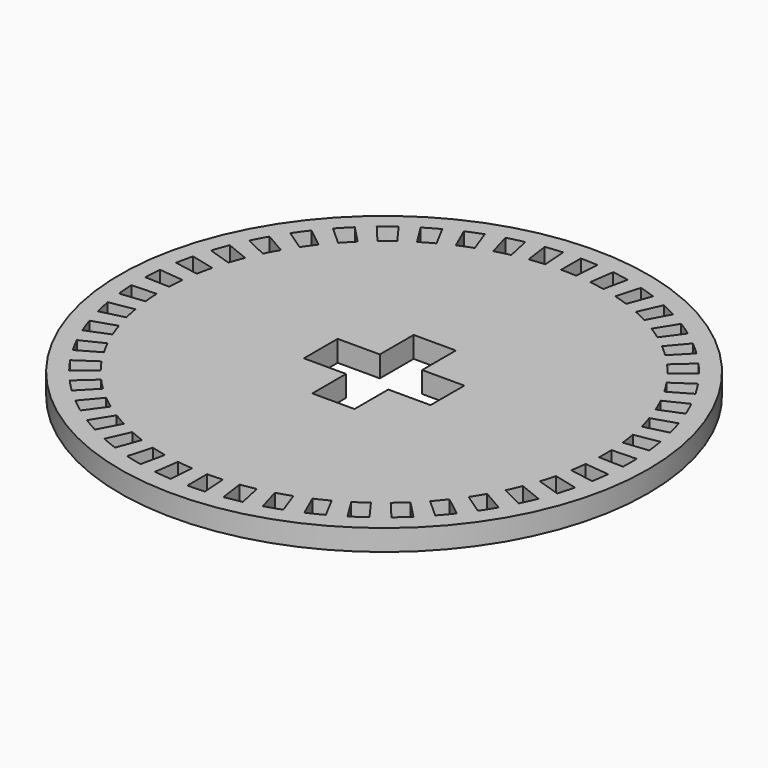
from build123d import *

# Parameters (mm, degrees)
F0_R     = 50
F1_DEPTH = 10
F2_R     = 125
F2_R_2   = 40.44952
F3_DEPTH = 10
F5_DEPTH = 25


with BuildPart() as f1:
    # F0 (on Top) → F1 (new body)
    with BuildSketch(Plane.XY):
        Circle(F0_R)
        Polygon((-10, 30), (0, 30), (10, 30), (10, 10), (30, 10), (30, 0), (30, -10), (10, -10), (10, -30), (0, -30), (-10, -30), (-10, -10), (-30, -10), (-30, 0), (-30, 10), (-10, 10), align=None, mode=Mode.SUBTRACT)
    extrude(amount=F1_DEPTH)

    # F2 (on face) → F3 (join)
    with BuildSketch(Plane.XY.offset(10)):
        Circle(F2_R)
        Circle(F2_R_2, mode=Mode.SUBTRACT)
    extrude(amount=-F3_DEPTH)

    # F4 (on face) → F5 (cut)
    with BuildSketch(Plane.XY.offset(10)):
        with BuildLine():
            Line((0, 116.456337), (0, 104.802647))
            ThreePointArc((0, 104.802647), (3.65756, 104.738804), (7.310663, 104.547353))
            Line((7.310663, 104.547353), (8.123583, 116.172655))
            ThreePointArc((8.123583, 116.172655), (4.064268, 116.385395), (0, 116.456337))
        make_face()
        with BuildLine():
            ThreePointArc((-14.585709, 103.782715), (-10.95486, 104.228527), (-7.310663, 104.547353))
            Line((-7.310663, 104.547353), (-8.123583, 116.172655))
            ThreePointArc((-8.123583, 116.172655), (-12.173002, 115.818377), (-16.20759, 115.322992))
            Line((-16.20759, 115.322992), (-14.585709, 103.782715))
        make_face()
        with BuildLine():
            ThreePointArc((-28.887525, 100.74277), (-25.354055, 101.689561), (-21.789696, 102.512458))
            Line((-21.789696, 102.512458), (-24.212634, 113.911487))
            ThreePointArc((-24.212634, 113.911487), (-28.173338, 112.997086), (-32.099717, 111.945016))
            Line((-32.099717, 111.945016), (-28.887525, 100.74277))
        make_face()
        with BuildLine():
            ThreePointArc((-42.627077, 95.741982), (-39.259763, 97.171322), (-35.844616, 98.482274))
            Line((-35.844616, 98.482274), (-39.830413, 109.433161))
            ThreePointArc((-39.830413, 109.433161), (-43.625312, 107.976436), (-47.36706, 106.388158))
            Line((-47.36706, 106.388158), (-42.627077, 95.741982))
        make_face()
        with BuildLine():
            ThreePointArc((-55.536942, 88.877685), (-52.401324, 90.761755), (-49.201863, 92.535245))
            Line((-49.201863, 92.535245), (-54.672939, 102.824843))
            ThreePointArc((-54.672939, 102.824843), (-58.228169, 100.854147), (-61.712457, 98.760575))
            Line((-61.712457, 98.760575), (-55.536942, 88.877685))
        make_face()
        with BuildLine():
            ThreePointArc((-67.365843, 80.283486), (-64.522952, 82.585613), (-61.60145, 84.787123))
            Line((-61.60145, 84.787123), (-68.451318, 94.215156))
            ThreePointArc((-68.451318, 94.215156), (-71.69768, 91.768846), (-74.856691, 89.21073))
            Line((-74.856691, 89.21073), (-67.365843, 80.283486))
        make_face()
        with BuildLine():
            ThreePointArc((-77.883545, 70.126659), (-75.388715, 72.802036), (-72.802036, 75.388715))
            Line((-72.802036, 75.388715), (-80.897369, 83.771678))
            ThreePointArc((-80.897369, 83.771678), (-83.771678, 80.897369), (-86.543924, 77.9245))
            Line((-86.543924, 77.9245), (-77.883545, 70.126659))
        make_face()
        with BuildLine():
            ThreePointArc((-86.885332, 58.604897), (-84.787123, 61.60145), (-82.585613, 64.522952))
            Line((-82.585613, 64.522952), (-91.768846, 71.69768))
            ThreePointArc((-91.768846, 71.69768), (-94.215156, 68.451318), (-96.546679, 65.121557))
            Line((-96.546679, 65.121557), (-86.885332, 58.604897))
        make_face()
        with BuildLine():
            ThreePointArc((-94.195995, 45.942457), (-92.535245, 49.201863), (-90.761755, 52.401324))
            Line((-90.761755, 52.401324), (-100.854147, 58.228169))
            ThreePointArc((-100.854147, 58.228169), (-102.824843, 54.672939), (-104.670263, 51.051098))
            Line((-104.670263, 51.051098), (-94.195995, 45.942457))
        make_face()
        with BuildLine():
            ThreePointArc((-99.673241, 32.385799), (-98.482274, 35.844616), (-97.171322, 39.259763))
            Line((-97.171322, 39.259763), (-107.976436, 43.625312))
            ThreePointArc((-107.976436, 43.625312), (-109.433161, 39.830413), (-110.756558, 35.986987))
            Line((-110.756558, 35.986987), (-99.673241, 32.385799))
        make_face()
        with BuildLine():
            ThreePointArc((-103.21046, 18.198789), (-102.512458, 21.789696), (-101.689561, 25.354055))
            Line((-101.689561, 25.354055), (-112.997086, 28.173338))
            ThreePointArc((-112.997086, 28.173338), (-113.911487, 24.212634), (-114.687104, 20.222431))
            Line((-114.687104, 20.222431), (-103.21046, 18.198789))
        make_face()
        with BuildLine():
            ThreePointArc((-104.738804, 3.65756), (-104.547353, 7.310663), (-104.228527, 10.95486))
            Line((-104.228527, 10.95486), (-115.818377, 12.173002))
            ThreePointArc((-115.818377, 12.173002), (-116.172655, 8.123583), (-116.385395, 4.064268))
            Line((-116.385395, 4.064268), (-104.738804, 3.65756))
        make_face()
        with BuildLine():
            ThreePointArc((-104.228527, -10.95486), (-104.547353, -7.310663), (-104.738804, -3.65756))
            Line((-104.738804, -3.65756), (-116.385395, -4.064268))
            ThreePointArc((-116.385395, -4.064268), (-116.172655, -8.123583), (-115.818377, -12.173002))
            Line((-115.818377, -12.173002), (-104.228527, -10.95486))
        make_face()
        with BuildLine():
            ThreePointArc((-101.689561, -25.354055), (-102.512458, -21.789696), (-103.21046, -18.198789))
            Line((-103.21046, -18.198789), (-114.687104, -20.222431))
            ThreePointArc((-114.687104, -20.222431), (-113.911487, -24.212634), (-112.997086, -28.173338))
            Line((-112.997086, -28.173338), (-101.689561, -25.354055))
        make_face()
        with BuildLine():
            ThreePointArc((-97.171322, -39.259763), (-98.482274, -35.844616), (-99.673241, -32.385799))
            Line((-99.673241, -32.385799), (-110.756558, -35.986987))
            ThreePointArc((-110.756558, -35.986987), (-109.433161, -39.830413), (-107.976436, -43.625312))
            Line((-107.976436, -43.625312), (-97.171322, -39.259763))
        make_face()
        with BuildLine():
            ThreePointArc((-90.761755, -52.401324), (-92.535245, -49.201863), (-94.195995, -45.942457))
            Line((-94.195995, -45.942457), (-104.670263, -51.051098))
            ThreePointArc((-104.670263, -51.051098), (-102.824843, -54.672939), (-100.854147, -58.228169))
            Line((-100.854147, -58.228169), (-90.761755, -52.401324))
        make_face()
        with BuildLine():
            ThreePointArc((-82.585613, -64.522952), (-84.787123, -61.60145), (-86.885332, -58.604897))
            Line((-86.885332, -58.604897), (-96.546679, -65.121557))
            ThreePointArc((-96.546679, -65.121557), (-94.215156, -68.451318), (-91.768846, -71.69768))
            Line((-91.768846, -71.69768), (-82.585613, -64.522952))
        make_face()
        with BuildLine():
            ThreePointArc((-72.802036, -75.388715), (-75.388715, -72.802036), (-77.883545, -70.126659))
            Line((-77.883545, -70.126659), (-86.543924, -77.9245))
            ThreePointArc((-86.543924, -77.9245), (-83.771678, -80.897369), (-80.897369, -83.771678))
            Line((-80.897369, -83.771678), (-72.802036, -75.388715))
        make_face()
        with BuildLine():
            ThreePointArc((-61.60145, -84.787123), (-64.522952, -82.585613), (-67.365843, -80.283486))
            Line((-67.365843, -80.283486), (-74.856691, -89.21073))
            ThreePointArc((-74.856691, -89.21073), (-71.69768, -91.768846), (-68.451318, -94.215156))
            Line((-68.451318, -94.215156), (-61.60145, -84.787123))
        make_face()
        with BuildLine():
            ThreePointArc((-49.201863, -92.535245), (-52.401324, -90.761755), (-55.536942, -88.877685))
            Line((-55.536942, -88.877685), (-61.712457, -98.760575))
            ThreePointArc((-61.712457, -98.760575), (-58.228169, -100.854147), (-54.672939, -102.824843))
            Line((-54.672939, -102.824843), (-49.201863, -92.535245))
        make_face()
        with BuildLine():
            ThreePointArc((-35.844616, -98.482274), (-39.259763, -97.171322), (-42.627077, -95.741982))
            Line((-42.627077, -95.741982), (-47.36706, -106.388158))
            ThreePointArc((-47.36706, -106.388158), (-43.625312, -107.976436), (-39.830413, -109.433161))
            Line((-39.830413, -109.433161), (-35.844616, -98.482274))
        make_face()
        with BuildLine():
            ThreePointArc((-21.789696, -102.512458), (-25.354055, -101.689561), (-28.887525, -100.74277))
            Line((-28.887525, -100.74277), (-32.099717, -111.945016))
            ThreePointArc((-32.099717, -111.945016), (-28.173338, -112.997086), (-24.212634, -113.911487))
            Line((-24.212634, -113.911487), (-21.789696, -102.512458))
        make_face()
        with BuildLine():
            ThreePointArc((-7.310663, -104.547353), (-10.95486, -104.228527), (-14.585709, -103.782715))
            Line((-14.585709, -103.782715), (-16.20759, -115.322992))
            ThreePointArc((-16.20759, -115.322992), (-12.173002, -115.818377), (-8.123583, -116.172655))
            Line((-8.123583, -116.172655), (-7.310663, -104.547353))
        make_face()
        with BuildLine():
            ThreePointArc((7.310663, -104.547353), (3.65756, -104.738804), (0, -104.802647))
            Line((0, -104.802647), (0, -116.456337))
            ThreePointArc((0, -116.456337), (4.064268, -116.385395), (8.123583, -116.172655))
            Line((8.123583, -116.172655), (7.310663, -104.547353))
        make_face()
        with BuildLine():
            ThreePointArc((21.789696, -102.512458), (18.198789, -103.21046), (14.585709, -103.782715))
            Line((14.585709, -103.782715), (16.20759, -115.322992))
            ThreePointArc((16.20759, -115.322992), (20.222431, -114.687104), (24.212634, -113.911487))
            Line((24.212634, -113.911487), (21.789696, -102.512458))
        make_face()
        with BuildLine():
            ThreePointArc((35.844616, -98.482274), (32.385799, -99.673241), (28.887525, -100.74277))
            Line((28.887525, -100.74277), (32.099717, -111.945016))
            ThreePointArc((32.099717, -111.945016), (35.986987, -110.756558), (39.830413, -109.433161))
            Line((39.830413, -109.433161), (35.844616, -98.482274))
        make_face()
        with BuildLine():
            ThreePointArc((49.201863, -92.535245), (45.942457, -94.195995), (42.627077, -95.741982))
            Line((42.627077, -95.741982), (47.36706, -106.388158))
            ThreePointArc((47.36706, -106.388158), (51.051098, -104.670263), (54.672939, -102.824843))
            Line((54.672939, -102.824843), (49.201863, -92.535245))
        make_face()
        with BuildLine():
            ThreePointArc((61.60145, -84.787123), (58.604897, -86.885332), (55.536942, -88.877685))
            Line((55.536942, -88.877685), (61.712457, -98.760575))
            ThreePointArc((61.712457, -98.760575), (65.121557, -96.546679), (68.451318, -94.215156))
            Line((68.451318, -94.215156), (61.60145, -84.787123))
        make_face()
        with BuildLine():
            ThreePointArc((72.802036, -75.388715), (70.126659, -77.883545), (67.365843, -80.283486))
            Line((67.365843, -80.283486), (74.856691, -89.21073))
            ThreePointArc((74.856691, -89.21073), (77.9245, -86.543924), (80.897369, -83.771678))
            Line((80.897369, -83.771678), (72.802036, -75.388715))
        make_face()
        with BuildLine():
            ThreePointArc((82.585613, -64.522952), (80.283486, -67.365843), (77.883545, -70.126659))
            Line((77.883545, -70.126659), (86.543924, -77.9245))
            ThreePointArc((86.543924, -77.9245), (89.21073, -74.856691), (91.768846, -71.69768))
            Line((91.768846, -71.69768), (82.585613, -64.522952))
        make_face()
        with BuildLine():
            ThreePointArc((90.761755, -52.401324), (88.877685, -55.536942), (86.885332, -58.604897))
            Line((86.885332, -58.604897), (96.546679, -65.121557))
            ThreePointArc((96.546679, -65.121557), (98.760575, -61.712457), (100.854147, -58.228169))
            Line((100.854147, -58.228169), (90.761755, -52.401324))
        make_face()
        with BuildLine():
            ThreePointArc((97.171322, -39.259763), (95.741982, -42.627077), (94.195995, -45.942457))
            Line((94.195995, -45.942457), (104.670263, -51.051098))
            ThreePointArc((104.670263, -51.051098), (106.388158, -47.36706), (107.976436, -43.625312))
            Line((107.976436, -43.625312), (97.171322, -39.259763))
        make_face()
        with BuildLine():
            ThreePointArc((101.689561, -25.354055), (100.74277, -28.887525), (99.673241, -32.385799))
            Line((99.673241, -32.385799), (110.756558, -35.986987))
            ThreePointArc((110.756558, -35.986987), (111.945016, -32.099717), (112.997086, -28.173338))
            Line((112.997086, -28.173338), (101.689561, -25.354055))
        make_face()
        with BuildLine():
            ThreePointArc((104.228527, -10.95486), (103.782715, -14.585709), (103.21046, -18.198789))
            Line((103.21046, -18.198789), (114.687104, -20.222431))
            ThreePointArc((114.687104, -20.222431), (115.322992, -16.20759), (115.818377, -12.173002))
            Line((115.818377, -12.173002), (104.228527, -10.95486))
        make_face()
        with BuildLine():
            ThreePointArc((104.738804, 3.65756), (104.802647, 0), (104.738804, -3.65756))
            Line((104.738804, -3.65756), (116.385395, -4.064268))
            ThreePointArc((116.385395, -4.064268), (116.456337, 0), (116.385395, 4.064268))
            Line((116.385395, 4.064268), (104.738804, 3.65756))
        make_face()
        with BuildLine():
            ThreePointArc((103.21046, 18.198789), (103.782715, 14.585709), (104.228527, 10.95486))
            Line((104.228527, 10.95486), (115.818377, 12.173002))
            ThreePointArc((115.818377, 12.173002), (115.322992, 16.20759), (114.687104, 20.222431))
            Line((114.687104, 20.222431), (103.21046, 18.198789))
        make_face()
        with BuildLine():
            ThreePointArc((99.673241, 32.385799), (100.74277, 28.887525), (101.689561, 25.354055))
            Line((101.689561, 25.354055), (112.997086, 28.173338))
            ThreePointArc((112.997086, 28.173338), (111.945016, 32.099717), (110.756558, 35.986987))
            Line((110.756558, 35.986987), (99.673241, 32.385799))
        make_face()
        with BuildLine():
            ThreePointArc((94.195995, 45.942457), (95.741982, 42.627077), (97.171322, 39.259763))
            Line((97.171322, 39.259763), (107.976436, 43.625312))
            ThreePointArc((107.976436, 43.625312), (106.388158, 47.36706), (104.670263, 51.051098))
            Line((104.670263, 51.051098), (94.195995, 45.942457))
        make_face()
        with BuildLine():
            ThreePointArc((86.885332, 58.604897), (88.877685, 55.536942), (90.761755, 52.401324))
            Line((90.761755, 52.401324), (100.854147, 58.228169))
            ThreePointArc((100.854147, 58.228169), (98.760575, 61.712457), (96.546679, 65.121557))
            Line((96.546679, 65.121557), (86.885332, 58.604897))
        make_face()
        with BuildLine():
            ThreePointArc((77.883545, 70.126659), (80.283486, 67.365843), (82.585613, 64.522952))
            Line((82.585613, 64.522952), (91.768846, 71.69768))
            ThreePointArc((91.768846, 71.69768), (89.21073, 74.856691), (86.543924, 77.9245))
            Line((86.543924, 77.9245), (77.883545, 70.126659))
        make_face()
        with BuildLine():
            ThreePointArc((67.365843, 80.283486), (70.126659, 77.883545), (72.802036, 75.388715))
            Line((72.802036, 75.388715), (80.897369, 83.771678))
            ThreePointArc((80.897369, 83.771678), (77.9245, 86.543924), (74.856691, 89.21073))
            Line((74.856691, 89.21073), (67.365843, 80.283486))
        make_face()
        with BuildLine():
            ThreePointArc((55.536942, 88.877685), (58.604897, 86.885332), (61.60145, 84.787123))
            Line((61.60145, 84.787123), (68.451318, 94.215156))
            ThreePointArc((68.451318, 94.215156), (65.121557, 96.546679), (61.712457, 98.760575))
            Line((61.712457, 98.760575), (55.536942, 88.877685))
        make_face()
        with BuildLine():
            ThreePointArc((42.627077, 95.741982), (45.942457, 94.195995), (49.201863, 92.535245))
            Line((49.201863, 92.535245), (54.672939, 102.824843))
            ThreePointArc((54.672939, 102.824843), (51.051098, 104.670263), (47.36706, 106.388158))
            Line((47.36706, 106.388158), (42.627077, 95.741982))
        make_face()
        with BuildLine():
            ThreePointArc((28.887525, 100.74277), (32.385799, 99.673241), (35.844616, 98.482274))
            Line((35.844616, 98.482274), (39.830413, 109.433161))
            ThreePointArc((39.830413, 109.433161), (35.986987, 110.756558), (32.099717, 111.945016))
            Line((32.099717, 111.945016), (28.887525, 100.74277))
        make_face()
        with BuildLine():
            ThreePointArc((14.585709, 103.782715), (18.198789, 103.21046), (21.789696, 102.512458))
            Line((21.789696, 102.512458), (24.212634, 113.911487))
            ThreePointArc((24.212634, 113.911487), (20.222431, 114.687104), (16.20759, 115.322992))
            Line((16.20759, 115.322992), (14.585709, 103.782715))
        make_face()
    extrude(amount=-F5_DEPTH, mode=Mode.SUBTRACT)


solid = f1.part
